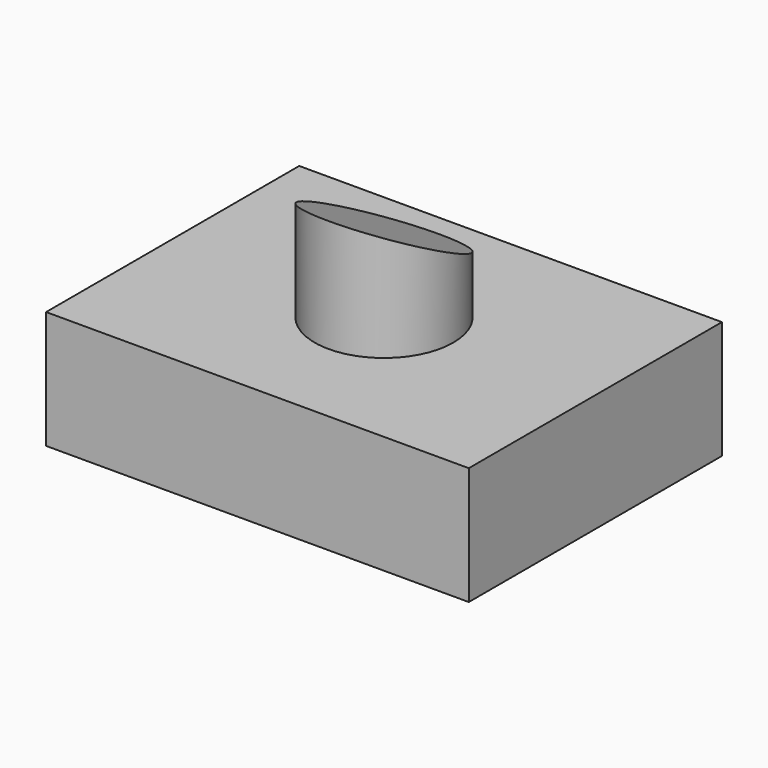
from build123d import *

# Parameters (mm, degrees)
F0_R     = 14.9287421436
F1_DEPTH = 38.1
F0_W     = 91.0995900631
F0_H     = 68.1872144341
F2_DEPTH = 25.4
F3_DEPTH = 12.7
F5_DEPTH = 25.4


with BuildPart() as f1:
    # F0 (on Top) → F1 (new body)
    with BuildSketch(Plane.XY):
        Circle(F0_R)
    extrude(amount=F1_DEPTH)

    # F0 (on Top) → F2 (join)
    with BuildSketch(Plane.XY):
        Rectangle(F0_W, F0_H)
        Circle(F0_R, mode=Mode.SUBTRACT)
    extrude(amount=F2_DEPTH)

    # F3 (add): a face of the model
    f3_faces = [f1.faces().sort_by_distance(p)[0] for p in [
        (0, 0, 38.1),
    ]]
    extrude(f3_faces, amount=F3_DEPTH)

    # F4 (on Right) → F5 (cut, symmetric)
    with BuildSketch(Plane.YZ):
        Polygon((-16.5885575116, 54.623093456), (-16.4052583277, 50.4072159529), (20.9877323359, 32.0773199201), (20.9877323359, 54.623093456), align=None)
    extrude(amount=F5_DEPTH, both=True, mode=Mode.SUBTRACT)


solid = f1.part
